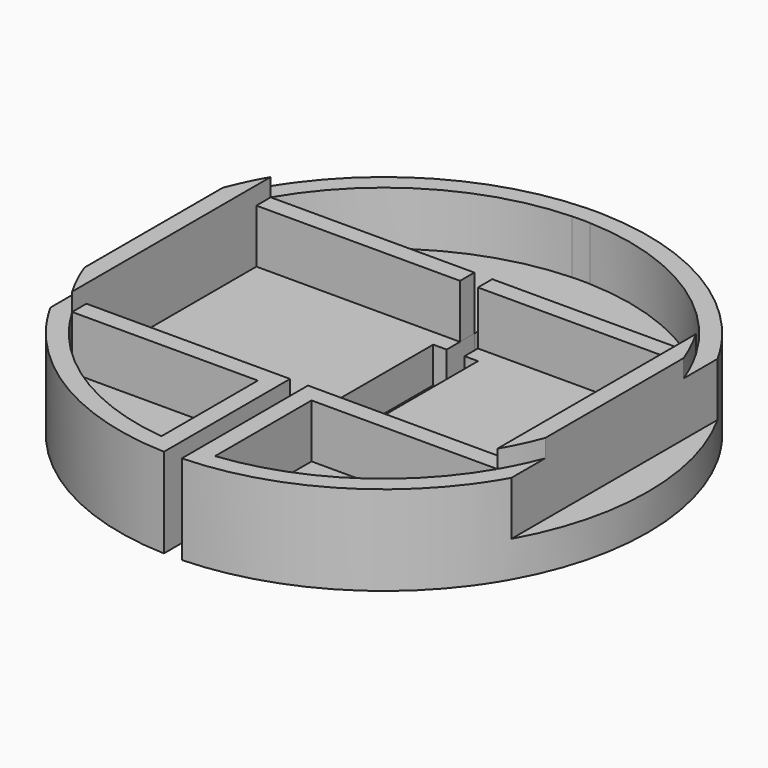
from build123d import *

# Parameters (mm, degrees)
F0_W     = 22.7486841741
F0_H     = 2
F1_DEPTH = 4
F2_DEPTH = 12
F3_DEPTH = 10
F4_DEPTH = 10


with BuildPart() as f1:
    # F0 (on Top) → F1 (new body)
    with BuildSketch(Plane.XY):
        Polygon((-1, 10), (-1, 11.8654246239), (-23.7486841741, 11.8654246239), (-23.7486841741, -11.8654246239), (-1, -11.8654246239), (-1, -10), (-2.5, -10), (-2.5, 10), align=None)
        with BuildLine():
            Line((-23.7486841741, 11.8654246239), (-23.7486841741, 13.8654246239))
            ThreePointArc((-23.7486841741, 13.8654246239), (-24.8379817562, 11.8035868395), (-25.7486841741, 9.6568764776))
            Line((-25.7486841741, 9.6568764776), (-25.7486841741, -9.6568764776))
            ThreePointArc((-25.7486841741, -9.6568764776), (-24.8379817562, -11.8035868395), (-23.7486841741, -13.8654246239))
            Line((-23.7486841741, -13.8654246239), (-23.7486841741, -11.8654246239))
            Line((-23.7486841741, -11.8654246239), (-23.7486841741, 11.8654246239))
        make_face()
        with BuildLine():
            Line((-25.7486841741, -9.6568764776), (-25.7486841741, 9.6568764776))
            ThreePointArc((-25.7486841741, 9.6568764776), (-27.5, 0), (-25.7486841741, -9.6568764776))
        make_face()
        with BuildLine():
            Line((-25.7486841741, 9.6568764776), (-25.7486841741, 14.3963628498))
            ThreePointArc((-25.7486841741, 14.3963628498), (-29.5, 0), (-25.7486841741, -14.3963628498))
            Line((-25.7486841741, -14.3963628498), (-25.7486841741, -9.6568764776))
            ThreePointArc((-25.7486841741, -9.6568764776), (-27.5, 0), (-25.7486841741, 9.6568764776))
        make_face()
        with BuildLine():
            Line((-23.7486841741, 13.8654246239), (-23.7486841741, 17.5))
            ThreePointArc((-23.7486841741, 17.5), (-24.7972883445, 15.9795022063), (-25.7486841741, 14.3963628498))
            Line((-25.7486841741, 14.3963628498), (-25.7486841741, 9.6568764776))
            ThreePointArc((-25.7486841741, 9.6568764776), (-24.8379817562, 11.8035868395), (-23.7486841741, 13.8654246239))
        make_face()
        with BuildLine():
            Line((-1, 27.4818121673), (-1, 29.4830459756))
            ThreePointArc((-1, 29.4830459756), (-13.7485522802, 26.1003316109), (-23.7486841741, 17.5))
            Line((-23.7486841741, 17.5), (-23.7486841741, 13.8654246239))
            ThreePointArc((-23.7486841741, 13.8654246239), (-14.1235917712, 23.5960622876), (-1, 27.4818121673))
        make_face()
        with BuildLine():
            Line((-1, 19.4830459756), (-1, 27.4818121673))
            ThreePointArc((-1, 27.4818121673), (-14.1235917712, 23.5960622876), (-23.7486841741, 13.8654246239))
            Line((-23.7486841741, 13.8654246239), (-1, 13.8654246239))
            Line((-1, 13.8654246239), (-1, 19.4830459756))
        make_face()
        with Locations((-12.374342087, 12.8654246239)):
            Rectangle(F0_W, F0_H)
        with BuildLine():
            Line((23.7486841741, 13.8654246239), (23.7486841741, 17.5))
            ThreePointArc((23.7486841741, 17.5), (13.7485522802, 26.1003316109), (1, 29.4830459756))
            Line((1, 29.4830459756), (1, 27.4818121673))
            ThreePointArc((1, 27.4818121673), (14.1235917712, 23.5960622876), (23.7486841741, 13.8654246239))
        make_face()
        with BuildLine():
            Line((1, 27.4818121673), (1, 29.4830459756))
            ThreePointArc((1, 29.4830459756), (0, 29.5), (-1, 29.4830459756))
            Line((-1, 29.4830459756), (-1, 27.4818121673))
            ThreePointArc((-1, 27.4818121673), (0, 27.5), (1, 27.4818121673))
        make_face()
        with BuildLine():
            Line((1, 19.4830459756), (1, 27.4818121673))
            ThreePointArc((1, 27.4818121673), (0, 27.5), (-1, 27.4818121673))
            Line((-1, 27.4818121673), (-1, 19.4830459756))
            Line((-1, 19.4830459756), (1, 19.4830459756))
        make_face()
        with BuildLine():
            Line((1, 13.8654246239), (23.7486841741, 13.8654246239))
            ThreePointArc((23.7486841741, 13.8654246239), (14.1235917712, 23.5960622876), (1, 27.4818121673))
            Line((1, 27.4818121673), (1, 19.4830459756))
            Line((1, 19.4830459756), (1, 13.8654246239))
        make_face()
        with Locations((12.374342087, 12.8654246239)):
            Rectangle(F0_W, F0_H)
        Polygon((23.7486841741, -11.8654246239), (23.7486841741, 11.8654246239), (1, 11.8654246239), (1, 10), (2.5, 10), (2.5, -10), (1, -10), (1, -11.8654246239), align=None)
        Polygon((3, -13.8654246239), (23.7486841741, -13.8654246239), (23.7486841741, -11.8654246239), (1, -11.8654246239), (1, -13.8654246239), align=None)
        with BuildLine():
            ThreePointArc((3, -27.3358738657), (14.9745209257, -23.0654226721), (23.7486841741, -13.8654246239))
            Line((23.7486841741, -13.8654246239), (3, -13.8654246239))
            Line((3, -13.8654246239), (3, -27.3358738657))
        make_face()
        Polygon((-23.7486841741, -11.8654246239), (-23.7486841741, -13.8654246239), (-3, -13.8654246239), (-1, -13.8654246239), (-1, -11.8654246239), align=None)
        with BuildLine():
            Line((-3, -13.8654246239), (-23.7486841741, -13.8654246239))
            ThreePointArc((-23.7486841741, -13.8654246239), (-14.9745209257, -23.0654226721), (-3, -27.3358738657))
            Line((-3, -27.3358738657), (-3, -13.8654246239))
        make_face()
        with BuildLine():
            ThreePointArc((-23.7486841741, -17.5), (-13.7485522802, -26.1003316109), (-1, -29.4830459756))
            Line((-1, -29.4830459756), (-1, -27.4818121673))
            ThreePointArc((-1, -27.4818121673), (-2.0013306816, -27.4270792376), (-3, -27.3358738657))
            ThreePointArc((-3, -27.3358738657), (-14.9745209257, -23.0654226721), (-23.7486841741, -13.8654246239))
            Line((-23.7486841741, -13.8654246239), (-23.7486841741, -17.5))
        make_face()
        with BuildLine():
            ThreePointArc((-25.7486841741, -14.3963628498), (-24.7972883445, -15.9795022063), (-23.7486841741, -17.5))
            Line((-23.7486841741, -17.5), (-23.7486841741, -13.8654246239))
            ThreePointArc((-23.7486841741, -13.8654246239), (-24.8379817562, -11.8035868395), (-25.7486841741, -9.6568764776))
            Line((-25.7486841741, -9.6568764776), (-25.7486841741, -14.3963628498))
        make_face()
        with BuildLine():
            ThreePointArc((1, -29.4830459756), (13.7485522802, -26.1003316109), (23.7486841741, -17.5))
            Line((23.7486841741, -17.5), (23.7486841741, -13.8654246239))
            ThreePointArc((23.7486841741, -13.8654246239), (14.9745209257, -23.0654226721), (3, -27.3358738657))
            ThreePointArc((3, -27.3358738657), (2.0013306816, -27.4270792376), (1, -27.4818121673))
            Line((1, -27.4818121673), (1, -29.4830459756))
        make_face()
        with BuildLine():
            Line((25.7486841741, -9.6568764776), (25.7486841741, 9.6568764776))
            ThreePointArc((25.7486841741, 9.6568764776), (24.8379817562, 11.8035868395), (23.7486841741, 13.8654246239))
            Line((23.7486841741, 13.8654246239), (23.7486841741, 11.8654246239))
            Line((23.7486841741, 11.8654246239), (23.7486841741, -11.8654246239))
            Line((23.7486841741, -11.8654246239), (23.7486841741, -13.8654246239))
            ThreePointArc((23.7486841741, -13.8654246239), (24.8379817562, -11.8035868395), (25.7486841741, -9.6568764776))
        make_face()
        with BuildLine():
            ThreePointArc((27.5, 0), (27.0586290745, 4.9071980403), (25.7486841741, 9.6568764776))
            Line((25.7486841741, 9.6568764776), (25.7486841741, -9.6568764776))
            ThreePointArc((25.7486841741, -9.6568764776), (27.0586290745, -4.9071980403), (27.5, 0))
        make_face()
        with BuildLine():
            ThreePointArc((25.7486841741, -14.3963628498), (28.5467702476, -7.4385420905), (29.5, 0))
            ThreePointArc((29.5, 0), (28.5467702476, 7.4385420905), (25.7486841741, 14.3963628498))
            Line((25.7486841741, 14.3963628498), (25.7486841741, 9.6568764776))
            ThreePointArc((25.7486841741, 9.6568764776), (27.0586290745, 4.9071980403), (27.5, 0))
            ThreePointArc((27.5, 0), (27.0586290745, -4.9071980403), (25.7486841741, -9.6568764776))
            Line((25.7486841741, -9.6568764776), (25.7486841741, -14.3963628498))
        make_face()
        with BuildLine():
            Line((25.7486841741, 9.6568764776), (25.7486841741, 14.3963628498))
            ThreePointArc((25.7486841741, 14.3963628498), (24.7972883445, 15.9795022063), (23.7486841741, 17.5))
            Line((23.7486841741, 17.5), (23.7486841741, 13.8654246239))
            ThreePointArc((23.7486841741, 13.8654246239), (24.8379817562, 11.8035868395), (25.7486841741, 9.6568764776))
        make_face()
        with BuildLine():
            ThreePointArc((23.7486841741, -17.5), (24.7972883445, -15.9795022063), (25.7486841741, -14.3963628498))
            Line((25.7486841741, -14.3963628498), (25.7486841741, -9.6568764776))
            ThreePointArc((25.7486841741, -9.6568764776), (24.8379817562, -11.8035868395), (23.7486841741, -13.8654246239))
            Line((23.7486841741, -13.8654246239), (23.7486841741, -17.5))
        make_face()
        with BuildLine():
            ThreePointArc((-3, -27.3358738657), (-2.0013306816, -27.4270792376), (-1, -27.4818121673))
            Line((-1, -27.4818121673), (-1, -13.8654246239))
            Line((-1, -13.8654246239), (-3, -13.8654246239))
            Line((-3, -13.8654246239), (-3, -27.3358738657))
        make_face()
        with BuildLine():
            Line((1, -13.8654246239), (1, -27.4818121673))
            ThreePointArc((1, -27.4818121673), (2.0013306816, -27.4270792376), (3, -27.3358738657))
            Line((3, -27.3358738657), (3, -13.8654246239))
            Line((3, -13.8654246239), (1, -13.8654246239))
        make_face()
    extrude(amount=F1_DEPTH)

    # F0 (on Top) → F2 (join)
    with BuildSketch(Plane.XY):
        with BuildLine():
            Line((-23.7486841741, 11.8654246239), (-23.7486841741, 13.8654246239))
            ThreePointArc((-23.7486841741, 13.8654246239), (-24.8379817562, 11.8035868395), (-25.7486841741, 9.6568764776))
            Line((-25.7486841741, 9.6568764776), (-25.7486841741, -9.6568764776))
            ThreePointArc((-25.7486841741, -9.6568764776), (-24.8379817562, -11.8035868395), (-23.7486841741, -13.8654246239))
            Line((-23.7486841741, -13.8654246239), (-23.7486841741, -11.8654246239))
            Line((-23.7486841741, -11.8654246239), (-23.7486841741, 11.8654246239))
        make_face()
        with BuildLine():
            Line((25.7486841741, -9.6568764776), (25.7486841741, 9.6568764776))
            ThreePointArc((25.7486841741, 9.6568764776), (24.8379817562, 11.8035868395), (23.7486841741, 13.8654246239))
            Line((23.7486841741, 13.8654246239), (23.7486841741, 11.8654246239))
            Line((23.7486841741, 11.8654246239), (23.7486841741, -11.8654246239))
            Line((23.7486841741, -11.8654246239), (23.7486841741, -13.8654246239))
            ThreePointArc((23.7486841741, -13.8654246239), (24.8379817562, -11.8035868395), (25.7486841741, -9.6568764776))
        make_face()
    extrude(amount=F2_DEPTH)

    # F0 (on Top) → F3 (join)
    with BuildSketch(Plane.XY):
        with BuildLine():
            Line((-23.7486841741, 11.8654246239), (-23.7486841741, 13.8654246239))
            ThreePointArc((-23.7486841741, 13.8654246239), (-24.8379817562, 11.8035868395), (-25.7486841741, 9.6568764776))
            Line((-25.7486841741, 9.6568764776), (-25.7486841741, -9.6568764776))
            ThreePointArc((-25.7486841741, -9.6568764776), (-24.8379817562, -11.8035868395), (-23.7486841741, -13.8654246239))
            Line((-23.7486841741, -13.8654246239), (-23.7486841741, -11.8654246239))
            Line((-23.7486841741, -11.8654246239), (-23.7486841741, 11.8654246239))
        make_face()
        with BuildLine():
            ThreePointArc((-25.7486841741, -14.3963628498), (-24.7972883445, -15.9795022063), (-23.7486841741, -17.5))
            Line((-23.7486841741, -17.5), (-23.7486841741, -13.8654246239))
            ThreePointArc((-23.7486841741, -13.8654246239), (-24.8379817562, -11.8035868395), (-25.7486841741, -9.6568764776))
            Line((-25.7486841741, -9.6568764776), (-25.7486841741, -14.3963628498))
        make_face()
        with BuildLine():
            ThreePointArc((-23.7486841741, -17.5), (-13.7485522802, -26.1003316109), (-1, -29.4830459756))
            Line((-1, -29.4830459756), (-1, -27.4818121673))
            ThreePointArc((-1, -27.4818121673), (-2.0013306816, -27.4270792376), (-3, -27.3358738657))
            ThreePointArc((-3, -27.3358738657), (-14.9745209257, -23.0654226721), (-23.7486841741, -13.8654246239))
            Line((-23.7486841741, -13.8654246239), (-23.7486841741, -17.5))
        make_face()
        with BuildLine():
            ThreePointArc((-3, -27.3358738657), (-2.0013306816, -27.4270792376), (-1, -27.4818121673))
            Line((-1, -27.4818121673), (-1, -13.8654246239))
            Line((-1, -13.8654246239), (-3, -13.8654246239))
            Line((-3, -13.8654246239), (-3, -27.3358738657))
        make_face()
        Polygon((-23.7486841741, -11.8654246239), (-23.7486841741, -13.8654246239), (-3, -13.8654246239), (-1, -13.8654246239), (-1, -11.8654246239), align=None)
        Polygon((3, -13.8654246239), (23.7486841741, -13.8654246239), (23.7486841741, -11.8654246239), (1, -11.8654246239), (1, -13.8654246239), align=None)
        with BuildLine():
            Line((1, -13.8654246239), (1, -27.4818121673))
            ThreePointArc((1, -27.4818121673), (2.0013306816, -27.4270792376), (3, -27.3358738657))
            Line((3, -27.3358738657), (3, -13.8654246239))
            Line((3, -13.8654246239), (1, -13.8654246239))
        make_face()
        with BuildLine():
            ThreePointArc((1, -29.4830459756), (13.7485522802, -26.1003316109), (23.7486841741, -17.5))
            Line((23.7486841741, -17.5), (23.7486841741, -13.8654246239))
            ThreePointArc((23.7486841741, -13.8654246239), (14.9745209257, -23.0654226721), (3, -27.3358738657))
            ThreePointArc((3, -27.3358738657), (2.0013306816, -27.4270792376), (1, -27.4818121673))
            Line((1, -27.4818121673), (1, -29.4830459756))
        make_face()
        with BuildLine():
            Line((25.7486841741, -9.6568764776), (25.7486841741, 9.6568764776))
            ThreePointArc((25.7486841741, 9.6568764776), (24.8379817562, 11.8035868395), (23.7486841741, 13.8654246239))
            Line((23.7486841741, 13.8654246239), (23.7486841741, 11.8654246239))
            Line((23.7486841741, 11.8654246239), (23.7486841741, -11.8654246239))
            Line((23.7486841741, -11.8654246239), (23.7486841741, -13.8654246239))
            ThreePointArc((23.7486841741, -13.8654246239), (24.8379817562, -11.8035868395), (25.7486841741, -9.6568764776))
        make_face()
        with BuildLine():
            Line((25.7486841741, 9.6568764776), (25.7486841741, 14.3963628498))
            ThreePointArc((25.7486841741, 14.3963628498), (24.7972883445, 15.9795022063), (23.7486841741, 17.5))
            Line((23.7486841741, 17.5), (23.7486841741, 13.8654246239))
            ThreePointArc((23.7486841741, 13.8654246239), (24.8379817562, 11.8035868395), (25.7486841741, 9.6568764776))
        make_face()
        with BuildLine():
            ThreePointArc((23.7486841741, -17.5), (24.7972883445, -15.9795022063), (25.7486841741, -14.3963628498))
            Line((25.7486841741, -14.3963628498), (25.7486841741, -9.6568764776))
            ThreePointArc((25.7486841741, -9.6568764776), (24.8379817562, -11.8035868395), (23.7486841741, -13.8654246239))
            Line((23.7486841741, -13.8654246239), (23.7486841741, -17.5))
        make_face()
        with BuildLine():
            Line((23.7486841741, 13.8654246239), (23.7486841741, 17.5))
            ThreePointArc((23.7486841741, 17.5), (13.7485522802, 26.1003316109), (1, 29.4830459756))
            Line((1, 29.4830459756), (1, 27.4818121673))
            ThreePointArc((1, 27.4818121673), (14.1235917712, 23.5960622876), (23.7486841741, 13.8654246239))
        make_face()
        with BuildLine():
            Line((-1, 27.4818121673), (-1, 29.4830459756))
            ThreePointArc((-1, 29.4830459756), (-13.7485522802, 26.1003316109), (-23.7486841741, 17.5))
            Line((-23.7486841741, 17.5), (-23.7486841741, 13.8654246239))
            ThreePointArc((-23.7486841741, 13.8654246239), (-14.1235917712, 23.5960622876), (-1, 27.4818121673))
        make_face()
        with BuildLine():
            Line((-23.7486841741, 13.8654246239), (-23.7486841741, 17.5))
            ThreePointArc((-23.7486841741, 17.5), (-24.7972883445, 15.9795022063), (-25.7486841741, 14.3963628498))
            Line((-25.7486841741, 14.3963628498), (-25.7486841741, 9.6568764776))
            ThreePointArc((-25.7486841741, 9.6568764776), (-24.8379817562, 11.8035868395), (-23.7486841741, 13.8654246239))
        make_face()
        with Locations((-12.374342087, 12.8654246239)):
            Rectangle(F0_W, F0_H)
        with Locations((12.374342087, 12.8654246239)):
            Rectangle(F0_W, F0_H)
    extrude(amount=F3_DEPTH)

    # F0 (on Top) → F4 (join)
    with BuildSketch(Plane.XY):
        with BuildLine():
            Line((1, 27.4818121673), (1, 29.4830459756))
            ThreePointArc((1, 29.4830459756), (0, 29.5), (-1, 29.4830459756))
            Line((-1, 29.4830459756), (-1, 27.4818121673))
            ThreePointArc((-1, 27.4818121673), (0, 27.5), (1, 27.4818121673))
        make_face()
    extrude(amount=F4_DEPTH)


solid = f1.part
